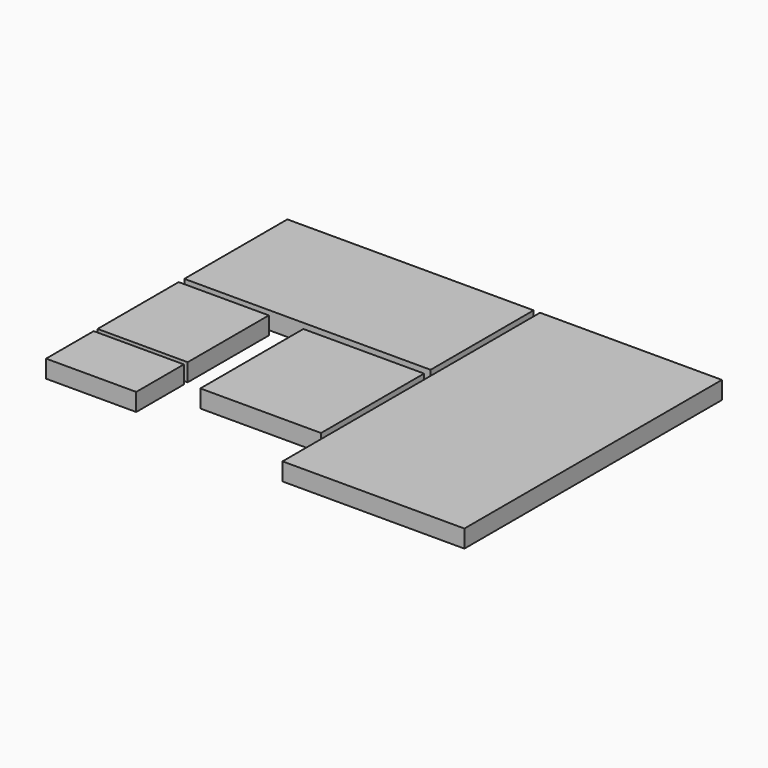
from build123d import *

# Parameters (mm, degrees)
F0_W     = 153
F0_H     = 80
F0_W_2   = 56
F0_H_2   = 63
F0_H_3   = 37
F0_W_3   = 75
F0_W_4   = 113
F0_H_4   = 200
F1_DEPTH = 11


with BuildPart() as f1:
    # F0 (on Top) → F1 (new body)
    with BuildSketch(Plane.XY):
        with Locations((-58.5, 60)):
            Rectangle(F0_W, F0_H)
        with Locations((-107, -15.893795)):
            Rectangle(F0_W_2, F0_H_2)
        with Locations((-107, -68.877064)):
            Rectangle(F0_W_2, F0_H_3)
        with Locations((-19.5, -25.076837)):
            Rectangle(F0_W_3, F0_H)
        with Locations((78.5, 0)):
            Rectangle(F0_W_4, F0_H_4)
    extrude(amount=F1_DEPTH)


solid = f1.part
